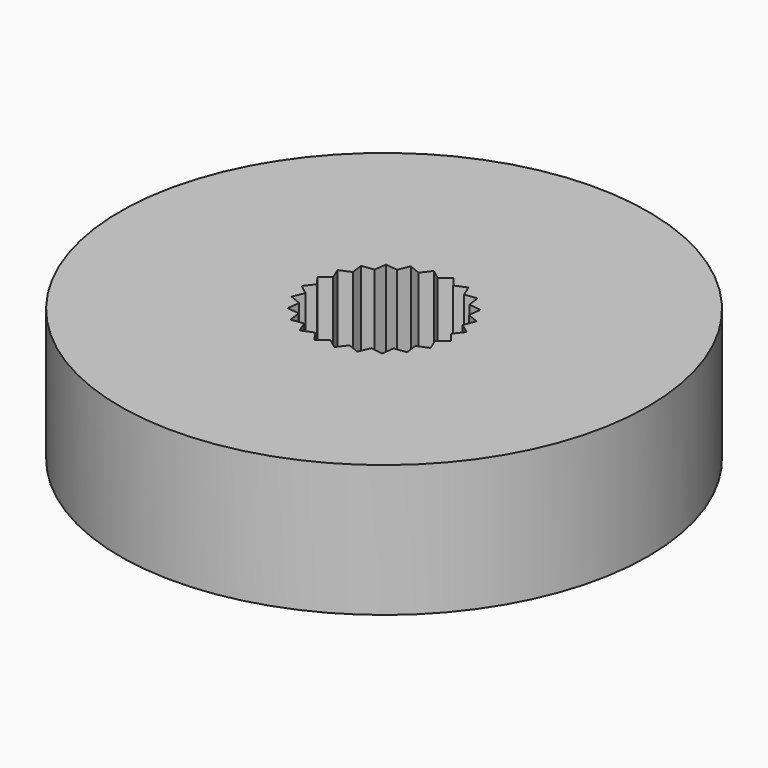
from build123d import *

# Parameters (mm, degrees)
F0_R     = 10
F1_DEPTH = 5


with BuildPart() as f1:
    # F0 (on Top) → F1 (new body)
    with BuildSketch(Plane.XY):
        Circle(F0_R)
        Polygon((-0.372, 2.825618), (0, 2.540172), (0.372, 2.825618), (0.657445, 2.453618), (1.090648, 2.633057), (1.270086, 2.199854), (1.73497, 2.261057), (1.796173, 1.796173), (2.261057, 1.73497), (2.199854, 1.270086), (2.633057, 1.090648), (2.453618, 0.657445), (2.825618, 0.372), (2.540172, 0), (2.825618, -0.372), (2.453618, -0.657445), (2.633057, -1.090648), (2.199854, -1.270086), (2.261057, -1.73497), (1.796173, -1.796173), (1.73497, -2.261057), (1.270086, -2.199854), (1.090648, -2.633057), (0.657445, -2.453618), (0.372, -2.825618), (0, -2.540172), (-0.372, -2.825618), (-0.657445, -2.453618), (-1.090648, -2.633057), (-1.270086, -2.199854), (-1.73497, -2.261057), (-1.796173, -1.796173), (-2.261057, -1.73497), (-2.199854, -1.270086), (-2.633057, -1.090648), (-2.453618, -0.657445), (-2.825618, -0.372), (-2.540172, 0), (-2.825618, 0.372), (-2.453618, 0.657445), (-2.633057, 1.090648), (-2.199854, 1.270086), (-2.261057, 1.73497), (-1.796173, 1.796173), (-1.73497, 2.261057), (-1.270086, 2.199854), (-1.090648, 2.633057), (-0.657445, 2.453618), align=None, mode=Mode.SUBTRACT)
    extrude(amount=F1_DEPTH)


solid = f1.part
